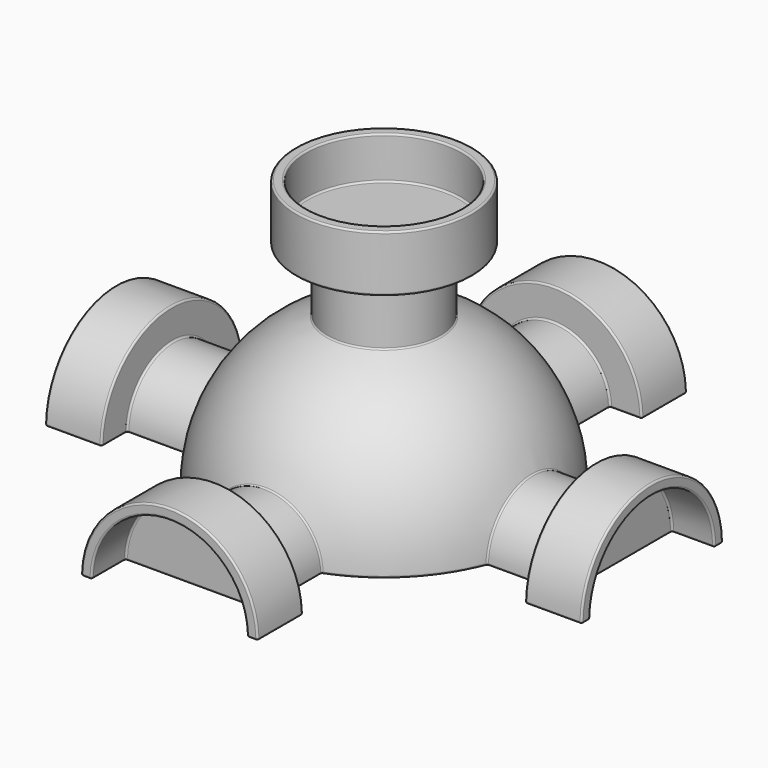
from build123d import *

# Parameters (mm, degrees)
F1_ANGLE  = 180
F2_R      = 11
F2_R_2    = 3
F3_DEPTH  = 3.5
F5_R      = 8
F6_DEPTH  = 10
F7_R      = 12.5
F8_DEPTH  = 8
F9_R      = 11
F10_DEPTH = 6
F13_DEPTH = 10
F15_DEPTH = 8
F17_DEPTH = 6
F20_DEPTH = 10
F22_DEPTH = 8
F24_DEPTH = 6
F27_DEPTH = 10
F29_DEPTH = 8
F31_DEPTH = 6
F34_DEPTH = 10
F36_DEPTH = 8
F38_DEPTH = 6
F39_R     = 0.25


with BuildPart() as f1:
    # F0 (on Top) → F1 (revolve)
    with BuildSketch(Plane.XY):
        with BuildLine():
            ThreePointArc((0, -22.5), (15.9099025767, -15.9099025767), (22.5, 0))
            ThreePointArc((22.5, 0), (15.9099025767, 15.9099025767), (0, 22.5))
            Line((0, 22.5), (0, -22.5))
        make_face()
    revolve(axis=Axis((0, 0, 0), (0, -1, 0)), revolution_arc=F1_ANGLE)

    # F2 (on face) → F3 (cut)
    with BuildSketch(Plane(origin=(0, 0, 0), x_dir=(1, 0, 0), z_dir=(0, 0, -1))):
        Circle(F2_R)
        with Locations((0, -17)):
            Circle(F2_R_2)
        with Locations((-17, 0)):
            Circle(F2_R_2)
        with Locations((17, 0)):
            Circle(F2_R_2)
        with Locations((0, 17)):
            Circle(F2_R_2)
    extrude(amount=-F3_DEPTH, mode=Mode.SUBTRACT)

    # F5 (on offset) → F6 (join)
    with BuildSketch(Plane.XY.offset(20)):
        Circle(F5_R)
    extrude(amount=F6_DEPTH)

    # F7 (on face) → F8 (join)
    with BuildSketch(Plane.XY.offset(30)):
        Circle(F7_R)
    extrude(amount=F8_DEPTH)

    # F9 (on face) → F10 (cut)
    with BuildSketch(Plane.XY.offset(38)):
        Circle(F9_R)
    extrude(amount=-F10_DEPTH, mode=Mode.SUBTRACT)

    # F12 (on offset) → F13 (join)
    with BuildSketch(Plane.XZ.offset(20)):
        with BuildLine():
            Line((-8, 0), (8, 0))
            ThreePointArc((8, 0), (0, 8), (-8, 0))
        make_face()
    extrude(amount=F13_DEPTH)

    # F14 (on face) → F15 (join)
    with BuildSketch(Plane.XZ.offset(30)):
        with BuildLine():
            Line((-12.5, 0), (12.5, 0))
            ThreePointArc((12.5, 0), (0, 12.5), (-12.5, 0))
        make_face()
    extrude(amount=F15_DEPTH)

    # F16 (on face) → F17 (cut)
    with BuildSketch(Plane.XZ.offset(38)):
        with BuildLine():
            Line((-11, 0), (11, 0))
            ThreePointArc((11, 0), (0, 11), (-11, 0))
        make_face()
    extrude(amount=-F17_DEPTH, mode=Mode.SUBTRACT)

    # F19 (on offset) → F20 (join)
    with BuildSketch(Plane.XZ.offset(-20)):
        with BuildLine():
            Line((-8, 0), (8, 0))
            ThreePointArc((8, 0), (0, 8), (-8, 0))
        make_face()
    extrude(amount=-F20_DEPTH)

    # F21 (on face) → F22 (join)
    with BuildSketch(Plane(origin=(0, 30, 0), x_dir=(-1, 0, 0), z_dir=(0, 1, 0))):
        with BuildLine():
            Line((-12.5, 0), (12.5, 0))
            ThreePointArc((12.5, 0), (0, 12.5), (-12.5, 0))
        make_face()
    extrude(amount=F22_DEPTH)

    # F23 (on face) → F24 (cut)
    with BuildSketch(Plane(origin=(0, 38, 0), x_dir=(-1, 0, 0), z_dir=(0, 1, 0))):
        with BuildLine():
            Line((-11, 0), (11, 0))
            ThreePointArc((11, 0), (0, 11), (-11, 0))
        make_face()
    extrude(amount=-F24_DEPTH, mode=Mode.SUBTRACT)

    # F26 (on offset) → F27 (join)
    with BuildSketch(Plane.YZ.offset(20)):
        with BuildLine():
            Line((-8, 0), (8, 0))
            ThreePointArc((8, 0), (0, 8), (-8, 0))
        make_face()
    extrude(amount=F27_DEPTH)

    # F28 (on face) → F29 (join)
    with BuildSketch(Plane.YZ.offset(30)):
        with BuildLine():
            Line((-12.5, 0), (12.5, 0))
            ThreePointArc((12.5, 0), (0, 12.5), (-12.5, 0))
        make_face()
    extrude(amount=F29_DEPTH)

    # F30 (on face) → F31 (cut)
    with BuildSketch(Plane.YZ.offset(38)):
        with BuildLine():
            Line((-11, 0), (11, 0))
            ThreePointArc((11, 0), (0, 11), (-11, 0))
        make_face()
    extrude(amount=-F31_DEPTH, mode=Mode.SUBTRACT)

    # F33 (on offset) → F34 (join)
    with BuildSketch(Plane.YZ.offset(-20)):
        with BuildLine():
            Line((-8, 0), (8, 0))
            ThreePointArc((8, 0), (0, 8), (-8, 0))
        make_face()
    extrude(amount=-F34_DEPTH)

    # F35 (on face) → F36 (join)
    with BuildSketch(Plane(origin=(-30, 0, 0), x_dir=(0, -1, 0), z_dir=(-1, 0, 0))):
        with BuildLine():
            Line((-12.5, 0), (12.5, 0))
            ThreePointArc((12.5, 0), (0, 12.5), (-12.5, 0))
        make_face()
    extrude(amount=F36_DEPTH)

    # F37 (on face) → F38 (cut)
    with BuildSketch(Plane(origin=(-38, 0, 0), x_dir=(0, -1, 0), z_dir=(-1, 0, 0))):
        with BuildLine():
            Line((-11, 0), (11, 0))
            ThreePointArc((11, 0), (0, 11), (-11, 0))
        make_face()
    extrude(amount=-F38_DEPTH, mode=Mode.SUBTRACT)

    # F39
    f39_edges = [f1.edges().sort_by_distance(p)[0] for p in [
        (-34, -12.5, 0),
        (-34, 12.5, 0),
        (-30, 0, 12.5),
        (-38, 0, 12.5),
        (-11, 0, 38),
        (-12.5, 0, 38),
        (0, -21.029741, 8),
        (-8, -25.51487, 0),
        (0, -30, 8),
        (8, -25.51487, 0),
        (12.5, -34, 0),
        (-12.5, -34, 0),
        (0, -30, 12.5),
        (0, -38, 12.5),
        (10.25, -30, 0),
        (-10.25, -30, 0),
        (11, 0, 35),
        (-11, 0, 32),
        (12.5, 0, 34),
        (-12.5, 0, 30),
        (11.75, -38, 0),
        (0, -38, 11),
        (-11.75, -38, 0),
        (-12.5, 34, 0),
        (12.5, 34, 0),
        (0, 30, 12.5),
        (0, 38, 12.5),
        (0, 21.029741, 8),
        (-8, 25.51487, 0),
        (0, 30, 8),
        (8, 25.51487, 0),
        (-11.75, 38, 0),
        (0, 38, 11),
        (11.75, 38, 0),
        (34, 12.5, 0),
        (34, -12.5, 0),
        (30, 0, 12.5),
        (38, 0, 12.5),
        (21.029741, 0, 8),
        (25.51487, -8, 0),
        (30, 0, 8),
        (25.51487, 8, 0),
        (38, 11.75, 0),
        (38, 0, 11),
        (38, -11.75, 0),
        (15.909903, -15.909903, 0),
        (15.909903, 15.909903, 0),
        (-15.909903, 15.909903, 0),
        (-21.029741, 0, 8),
        (-15.909903, -15.909903, 0),
        (-8, 0, 21.029741),
        (-25.51487, -8, 0),
        (-30, 0, 8),
        (-25.51487, 8, 0),
        (-38, -11.75, 0),
        (-38, 0, 11),
        (-38, 11.75, 0),
        (-30, 10.25, 0),
        (-10.25, 30, 0),
        (-11, 35, 0),
        (0, 32, 0),
        (11, 35, 0),
        (10.25, 30, 0),
        (30, 10.25, 0),
        (35, 11, 0),
        (32, 0, 0),
        (35, -11, 0),
        (30, -10.25, 0),
        (11, -35, 0),
        (0, -32, 0),
        (-11, -35, 0),
        (-30, -10.25, 0),
        (-35, -11, 0),
        (-32, 0, 0),
        (-35, 11, 0),
        (-20, 0, 0),
        (-3, 17, 0),
        (-11, 0, 0),
        (-3, -17, 0),
        (14, 0, 0),
        (3, -17, 1.75),
        (-3, -17, 3.5),
        (14, 0, 3.5),
        (20, 0, 1.75),
        (3, 17, 1.75),
        (-3, 17, 3.5),
        (-20, 0, 3.5),
        (8, 0, 25.51487),
        (-8, 0, 30),
        (0, -32, 11),
        (0, 32, 11),
        (32, 0, 11),
        (-14, 0, 1.75),
        (-11, 0, 3.5),
        (-32, 0, 11),
        (11, 0, 1.75),
    ]]
    fillet(f39_edges, radius=F39_R)


solid = f1.part
